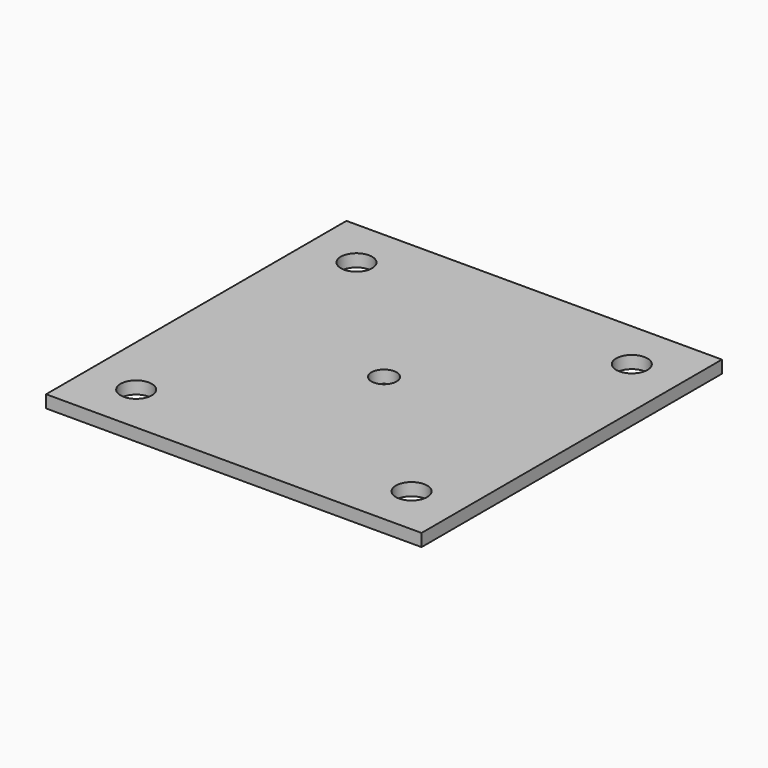
from build123d import *

# Parameters (mm, degrees)
F0_W     = 38.1
F0_H     = 38.1
F1_DEPTH = 1.27
F2_R     = 1.27
F3_DEPTH = 25.4
F4_R     = 1.5875
F5_DEPTH = 25.4


with BuildPart() as f1:
    # F0 (on Top) → F1 (new body)
    with BuildSketch(Plane.XY):
        Rectangle(F0_W, F0_H)
    extrude(amount=F1_DEPTH)

    # F2 (on Top) → F3 (cut)
    with BuildSketch(Plane.XY):
        Circle(F2_R)
    extrude(amount=F3_DEPTH, mode=Mode.SUBTRACT)

    # F4 (on Top) → F5 (cut)
    with BuildSketch(Plane.XY):
        with Locations((13.97, 13.97)):
            Circle(F4_R)
    extrude(amount=F5_DEPTH, mode=Mode.SUBTRACT)

    # F6: F1 across plane


with BuildPart() as f1_1:
    add(f1.part)
    add(f1.part.mirror(Plane.YZ), mode=Mode.INTERSECT)

    # F7: F1 across plane


with BuildPart() as f1_2:
    add(f1_1.part)
    add(f1_1.part.mirror(Plane.XZ), mode=Mode.INTERSECT)


solid = f1_2.part
